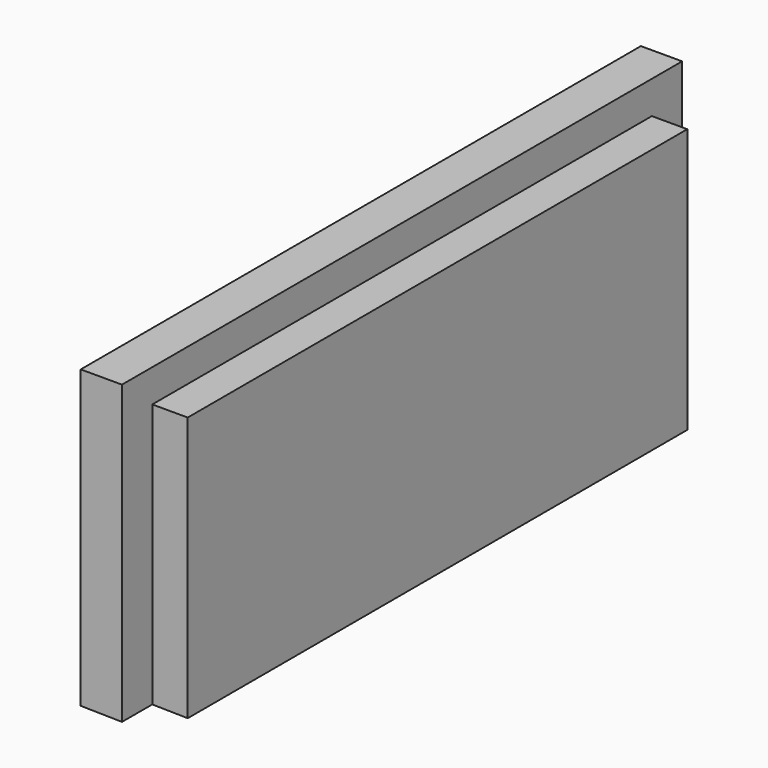
from build123d import *

# Parameters (mm, degrees)
F1_DEPTH   = 500
F2_W       = 25.3097712994
F2_H       = 27.039706707
F1_FACE1_W = 54.7773372423
F1_FACE1_H = 500
F3_DEPTH   = 189.0395001898
F4_W       = 25.3097712994
F4_H       = 27.051
F5_DEPTH   = 189.0395001898


with BuildPart() as f1:
    # F0 (on Front) → F1 (new body)
    with BuildSketch(Plane.XZ):
        Polygon((29.4588804245, 0), (0, 0), (0, -211.5057110786), (54.7686517239, -212.4811410904), (54.7686517239, -64.9340748787), (54.7686517239, -23.4426409006), (29.4588804245, -23.4426409006), align=None)
    extrude(amount=F1_DEPTH)

    # F2 (on face) + F1_face1 (on face) → F3 (cut, through all)
    with BuildSketch(Plane.XY.offset(-23.4426409006)):
        with Locations((42.1137660742, -13.5198533535)):
            Rectangle(F2_W, F2_H)
    with BuildSketch(Plane(origin=(27.3843258619, -250, -211.9934260845), x_dir=(1, 0, 0), z_dir=(-0.017807182, 0, -0.9998414396))):
        Rectangle(F1_FACE1_W, F1_FACE1_H)
    extrude(amount=-F3_DEPTH, dir=(0, 0, 1), mode=Mode.SUBTRACT)

    # F4 (on face) → F5 (cut, through all)
    with BuildSketch(Plane.XY.offset(-23.4426409006)):
        with Locations((42.1137660742, -486.4745)):
            Rectangle(F4_W, F4_H)
    extrude(amount=-F5_DEPTH, mode=Mode.SUBTRACT)


solid = f1.part
